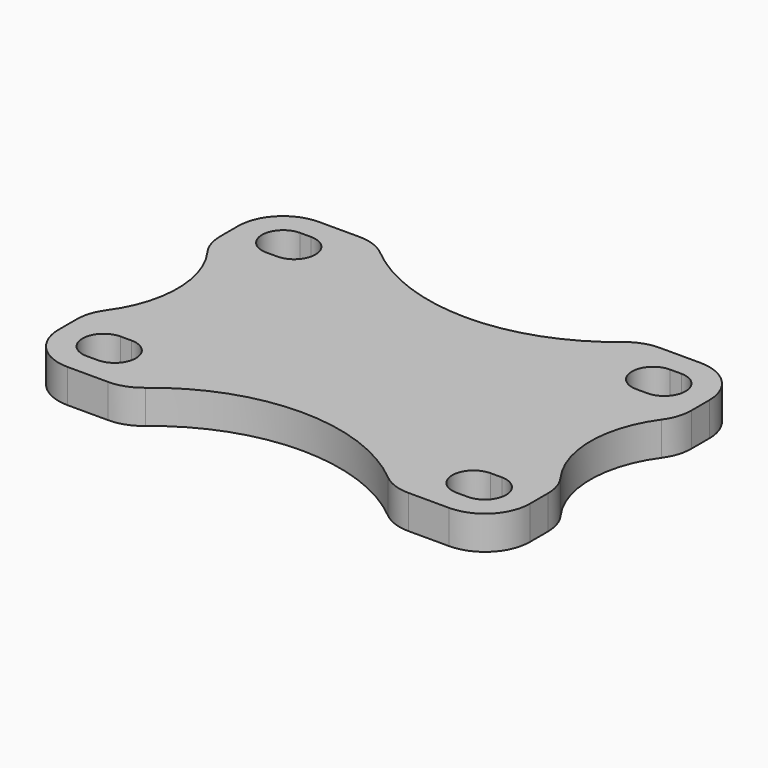
from build123d import *

# Parameters (mm, degrees)
F1_DEPTH = 9.525


with BuildPart() as f1:
    # F0 (on Top) → F1 (new body)
    with BuildSketch(Plane.XY):
        with BuildLine():
            ThreePointArc((66.675, 31.75), (62.955256, 40.730256), (53.975, 44.45))
            Line((53.975, 44.45), (42.480119, 44.45))
            ThreePointArc((42.480119, 44.45), (38.146553, 43.687764), (34.333175, 41.492551))
            ThreePointArc((34.333175, 41.492551), (0, 29.029153), (-34.333175, 41.492551))
            ThreePointArc((-34.333175, 41.492551), (-38.146553, 43.687764), (-42.480119, 44.45))
            Line((-42.480119, 44.45), (-53.975, 44.45))
            ThreePointArc((-53.975, 44.45), (-62.955256, 40.730256), (-66.675, 31.75))
            Line((-66.675, 31.75), (-66.675, 25.355166))
            ThreePointArc((-66.675, 25.355166), (-66.054129, 21.432839), (-64.25222, 17.894017))
            ThreePointArc((-64.25222, 17.894017), (-58.441686, 0), (-64.25222, -17.894017))
            ThreePointArc((-64.25222, -17.894017), (-66.054129, -21.432839), (-66.675, -25.355166))
            Line((-66.675, -25.355166), (-66.675, -31.75))
            ThreePointArc((-66.675, -31.75), (-62.955256, -40.730256), (-53.975, -44.45))
            Line((-53.975, -44.45), (-42.480119, -44.45))
            ThreePointArc((-42.480119, -44.45), (-38.146553, -43.687764), (-34.333175, -41.492551))
            ThreePointArc((-34.333175, -41.492551), (0, -29.029153), (34.333175, -41.492551))
            ThreePointArc((34.333175, -41.492551), (38.146553, -43.687764), (42.480119, -44.45))
            Line((42.480119, -44.45), (53.975, -44.45))
            ThreePointArc((53.975, -44.45), (62.955256, -40.730256), (66.675, -31.75))
            Line((66.675, -31.75), (66.675, -25.355166))
            ThreePointArc((66.675, -25.355166), (66.054129, -21.432839), (64.25222, -17.894017))
            ThreePointArc((64.25222, -17.894017), (58.441686, 0), (64.25222, 17.894017))
            ThreePointArc((64.25222, 17.894017), (66.054129, 21.432839), (66.675, 25.355166))
            Line((66.675, 25.355166), (66.675, 31.75))
        make_face()
        with BuildLine():
            ThreePointArc((-53.925, -37.75), (-59.925, -31.75), (-53.925, -25.75))
            Line((-53.925, -25.75), (-50.8, -25.75))
            ThreePointArc((-50.8, -25.75), (-44.8, -31.75), (-50.8, -37.75))
            Line((-50.8, -37.75), (-53.925, -37.75))
        make_face(mode=Mode.SUBTRACT)
        with BuildLine():
            ThreePointArc((53.925, -25.75), (59.925, -31.75), (53.925, -37.75))
            Line((53.925, -37.75), (50.75, -37.75))
            ThreePointArc((50.75, -37.75), (44.75, -31.75), (50.75, -25.75))
            Line((50.75, -25.75), (53.925, -25.75))
        make_face(mode=Mode.SUBTRACT)
        with BuildLine():
            ThreePointArc((-53.925, 25.75), (-59.925, 31.75), (-53.925, 37.75))
            Line((-53.925, 37.75), (-50.8, 37.75))
            ThreePointArc((-50.8, 37.75), (-44.8, 31.75), (-50.8, 25.75))
            Line((-50.8, 25.75), (-53.925, 25.75))
        make_face(mode=Mode.SUBTRACT)
        with BuildLine():
            ThreePointArc((53.925, 37.75), (59.925, 31.75), (53.925, 25.75))
            Line((53.925, 25.75), (50.75, 25.75))
            ThreePointArc((50.75, 25.75), (44.75, 31.75), (50.75, 37.75))
            Line((50.75, 37.75), (53.925, 37.75))
        make_face(mode=Mode.SUBTRACT)
    extrude(amount=F1_DEPTH)


solid = f1.part
